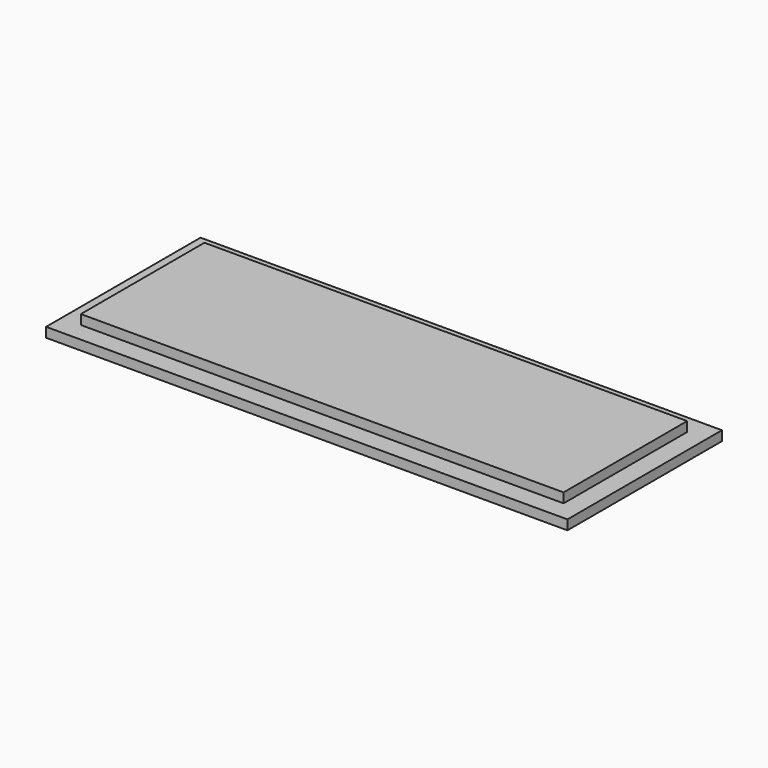
from build123d import *

# Parameters (mm, degrees)
F0_W     = 54
F0_H     = 20
F1_DEPTH = 1
F2_W     = 50
F2_H     = 16
F3_DEPTH = 1


with BuildPart() as f1:
    # F0 (on Top) → F1 (new body)
    with BuildSketch(Plane.XY):
        Rectangle(F0_W, F0_H)
    extrude(amount=F1_DEPTH)


with BuildPart() as f3:
    # F2 (on face) → F3 (new body)
    with BuildSketch(Plane.XY.offset(1)):
        Rectangle(F2_W, F2_H)
    extrude(amount=F3_DEPTH)


solid = Compound([f1.part, f3.part])
